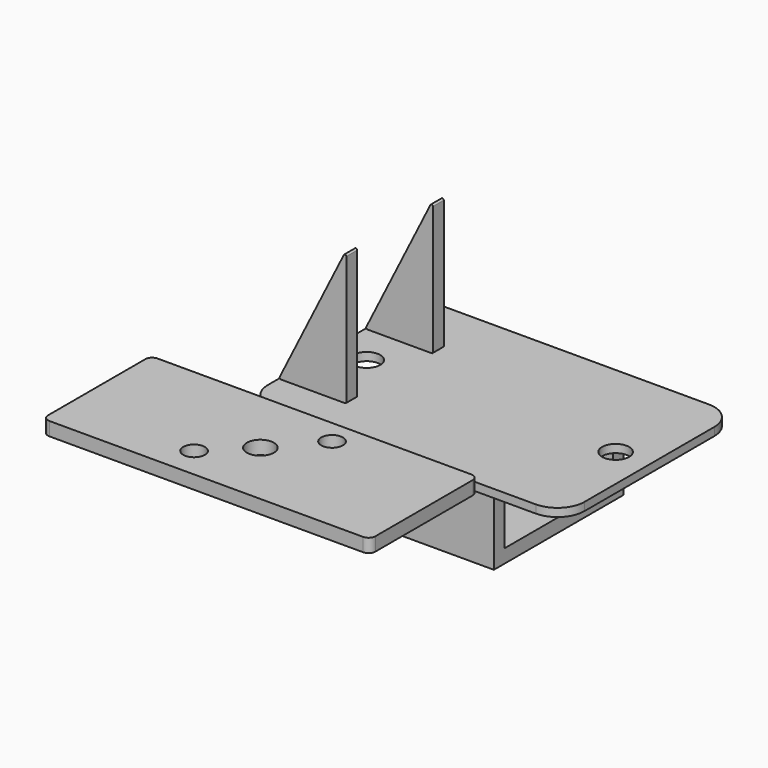
from build123d import *

# Parameters (mm, degrees)
F0_R      = 5
F1_DEPTH  = 3
F3_DEPTH  = 50
F5_R      = 5
F5_R_2    = 2.5
F6_DEPTH  = 25
F8_DEPTH  = 5
F11_W     = 50.4
F11_H     = 50
F11_R     = 4
F11_R_2   = 5
F12_DEPTH = 5


with BuildPart() as f1:
    # F0 (on Top) → F1 (new body)
    with BuildSketch(Plane.XY):
        with BuildLine():
            ThreePointArc((0, 10), (2.928932, 2.928932), (10, 0))
            Line((10, 0), (107, 0))
            ThreePointArc((107, 0), (114.071068, 2.928932), (117, 10))
            Line((117, 10), (117, 70))
            ThreePointArc((117, 70), (114.071068, 77.071068), (107, 80))
            Line((107, 80), (10, 80))
            ThreePointArc((10, 80), (2.928932, 77.071068), (0, 70))
            Line((0, 70), (0, 10))
        make_face()
        with Locations((12.5, 40)):
            Circle(F0_R, mode=Mode.SUBTRACT)
        with Locations((104.5, 40)):
            Circle(F0_R, mode=Mode.SUBTRACT)
    extrude(amount=F1_DEPTH)


with BuildPart() as f3:
    # F2 (on Right) → F3 (new body)
    with BuildSketch(Plane.YZ):
        Polygon((15, 0), (10, 0), (10, -30), (70, -30), (70, 0), (65, 0), (65, -25), (15, -25), align=None)
    extrude(amount=F3_DEPTH)


with BuildPart() as f3_1:
    # F4: moved
    add(f3.part.moved(Location((33.5, 0, 0))))

    # F5 (on face) → F6 (cut)
    with BuildSketch(Plane(origin=(0, 0, -30), x_dir=(1, 0, 0), z_dir=(0, 0, -1))):
        with Locations((58.5, -40)):
            Circle(F5_R)
        with Locations((46, -57.5)):
            Circle(F5_R_2)
        with Locations((71, -22.5)):
            Circle(F5_R_2)
    extrude(amount=-F6_DEPTH, mode=Mode.SUBTRACT)


with BuildPart() as f8:
    # F7 (on Front) → F8 (new body)
    with BuildSketch(Plane.XZ):
        with BuildLine():
            Line((25, 3.5), (25, 50.881966))
            ThreePointArc((25, 50.881966), (24.614876, 51.368591), (24.052786, 51.105573))
            Line((24.052786, 51.105573), (0.361803, 3.723607))
            ThreePointArc((0.361803, 3.723607), (0.383692, 3.237134), (0.809017, 3))
            Line((0.809017, 3), (24.5, 3))
            ThreePointArc((24.5, 3), (24.853553, 3.146447), (25, 3.5))
        make_face()
    extrude(amount=F8_DEPTH)


with BuildPart() as f8_1:
    # F9: moved
    add(f8.part.moved(Location((0, 20, 0))))


with BuildPart() as f10_1:
    # F10: copy of F8
    add(f8_1.part.moved(Location((0, 40, 0))))


with BuildPart() as f12:
    # F11 (on Top) → F12 (new body)
    with BuildSketch(Plane.XY):
        with Locations((25.2, -25)):
            Rectangle(F11_W, F11_H)
        with Locations((11.5, -38.5)):
            Circle(F11_R, mode=Mode.SUBTRACT)
        with Locations((25.2, -25)):
            Circle(F11_R_2, mode=Mode.SUBTRACT)
        with Locations((38.9, -9)):
            Circle(F11_R, mode=Mode.SUBTRACT)
        with BuildLine():
            Line((0, -50), (0, 0))
            Line((0, 0), (-32.8, 0))
            ThreePointArc((-32.8, 0), (-34.567767, -0.732233), (-35.3, -2.5))
            Line((-35.3, -2.5), (-35.3, -47.5))
            ThreePointArc((-35.3, -47.5), (-34.567767, -49.267767), (-32.8, -50))
            Line((-32.8, -50), (0, -50))
        make_face()
        with BuildLine():
            Line((83.2, 0), (50.4, 0))
            Line((50.4, 0), (50.4, -50))
            Line((50.4, -50), (83.2, -50))
            ThreePointArc((83.2, -50), (84.967767, -49.267767), (85.7, -47.5))
            Line((85.7, -47.5), (85.7, -2.5))
            ThreePointArc((85.7, -2.5), (84.967767, -0.732233), (83.2, 0))
        make_face()
    extrude(amount=F12_DEPTH)


solid = Compound([f1.part, f3_1.part, f8_1.part, f10_1.part, f12.part])
